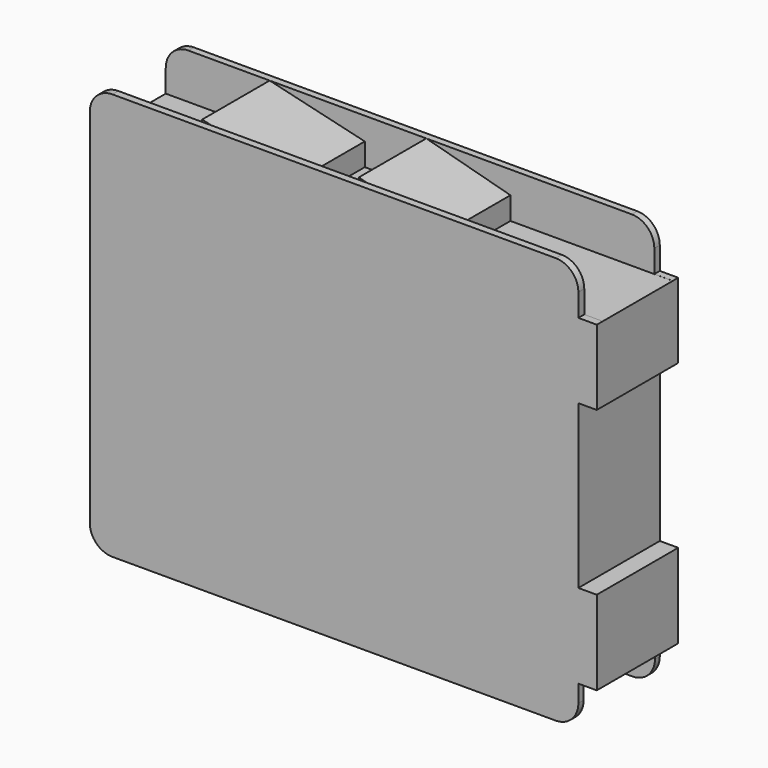
from build123d import *

# Parameters (mm, degrees)
F1_DEPTH  = 22.5
F2_W      = 19.3578329636
F2_H      = 6.3240909576
F2_H_2    = 5.0115762651
F2_W_2    = 19.7066257242
F2_H_3    = 3.8353008032
F2_H_4    = 6.6283914447
F3_DEPTH  = 155.21203
F5_DEPTH  = 18.63889
F6_R      = 2.0341510362
F6_R_2    = 1.9663944792
F6_R_3    = 2.1232474026
F7_DEPTH  = 10
F8_R      = 2.0166596657
F8_R_2    = 1.8228540719
F8_R_3    = 1.9926186892
F9_DEPTH  = 10
F11_DEPTH = 5.64108
F13_DEPTH = 40.33136
F12_W     = 4
F12_H     = 18.4578578919
F12_H_2   = 17.5
F14_DEPTH = 25
F16_W     = 1.5692119678
F16_H     = 22.5
F17_DEPTH = 78.97005
F18_DEPTH = 25
F19_DEPTH = 25


with BuildPart() as f1:
    # F0 (on Front) → F1 (new body)
    with BuildSketch(Plane.XZ):
        with BuildLine():
            ThreePointArc((-43.9944155514, -30.0488834083), (-42.5299494574, -33.5844173142), (-38.9944155514, -35.0488834083))
            Line((-38.9944155514, -35.0488834083), (59.0055844486, -35.0488834083))
            ThreePointArc((59.0055844486, -35.0488834083), (62.5411183545, -33.5844173142), (64.0055844486, -30.0488834083))
            Line((64.0055844486, -30.0488834083), (64.0055844486, 49.9511165917))
            ThreePointArc((64.0055844486, 49.9511165917), (62.5411183545, 53.4866504976), (59.0055844486, 54.9511165917))
            Line((59.0055844486, 54.9511165917), (-38.9944155514, 54.9511165917))
            ThreePointArc((-38.9944155514, 54.9511165917), (-42.5299494574, 53.4866504976), (-43.9944155514, 49.9511165917))
            Line((-43.9944155514, 49.9511165917), (-43.9944155514, -30.0488834083))
        make_face()
    extrude(amount=F1_DEPTH)

    # F2 (on face) → F3 (cut)
    with BuildSketch(Plane(origin=(-43.9944155514, 0, 0), x_dir=(0, -1, 0), z_dir=(-1, 0, 0))):
        with Locations((11.1899548792, 53.1131620705)):
            Rectangle(F2_W, F2_H)
        with Locations((11.1899548792, 47.4453284591)):
            Rectangle(F2_W, F2_H_2)
        with Locations((11.1899542389, -28.1312330067)):
            Rectangle(F2_W_2, F2_H_3)
        with Locations((11.1899542389, -33.3630791306)):
            Rectangle(F2_W_2, F2_H_4)
    extrude(amount=-F3_DEPTH, mode=Mode.SUBTRACT)

    # F4 (on face) → F5 (join)
    with BuildSketch(Plane.XZ.offset(1.5110383974)):
        Polygon((0, 49.9453284591), (-21.0268571973, 54.9511165917), (-21.0268571973, 44.9395403266), (0, 44.9395403266), align=None)
        Polygon((32.1980565786, 49.9453284591), (13.5992644355, 54.9511165917), (13.5992644355, 44.9395403266), (32.1980565786, 44.9395403266), align=None)
    extrude(amount=F5_DEPTH)

    # F6 (on face) → F7 (cut)
    with BuildSketch(Plane(origin=(-21.0268571973, 0, 0), x_dir=(0, -1, 0), z_dir=(-1, 0, 0))):
        with Locations((5.4616648704, 49.1789467633)):
            Circle(F6_R)
        with Locations((10.4407919571, 49.1789467633)):
            Circle(F6_R_2)
        with Locations((15.9926619381, 49.1789467633)):
            Circle(F6_R_3)
    extrude(amount=-F7_DEPTH, mode=Mode.SUBTRACT)

    # F8 (on face) → F9 (cut)
    with BuildSketch(Plane(origin=(13.5992644355, 0, 0), x_dir=(0, -1, 0), z_dir=(-1, 0, 0))):
        with Locations((5.1434063353, 49.4216457009)):
            Circle(F8_R)
        with Locations((9.7698038444, 49.4216457009)):
            Circle(F8_R_2)
        with Locations((15.0747206062, 49.4216457009)):
            Circle(F8_R_3)
    extrude(amount=-F9_DEPTH, mode=Mode.SUBTRACT)

    # F10 (on face) → F11 (join)
    with BuildSketch(Plane.YZ.offset(64.0055844486)):
        Polygon((-20.868871361, 44.9503771961), (-22.5, 44.9503771961), (-22.5, 28.3550862223), (0, 28.3550862223), (0, 44.9503771961), (-1.5110383974, 44.9503771961), (-1.5110383974, 44.9395403266), (-20.868871361, 44.9395403266), align=None)
        Polygon((0, -8.5606295615), (-22.5, -8.5606295615), (-22.5, -26.2135826051), (-21.043267101, -26.2135826051), (-1.3366413768, -26.2135826051), (0, -26.2135826051), align=None)
    extrude(amount=F11_DEPTH)

    # F13 (add): a face of the model
    f13_faces = [f1.faces().sort_by_distance(p)[0] for p in [
        (66.8261244486, -11.25, 28.3550862223),
    ]]
    extrude(f13_faces, amount=F13_DEPTH)

    # F12 (on face) → F14 (cut)
    with BuildSketch(Plane.XZ.offset(22.5)):
        with Locations((66.0055844486, 19.1261572763)):
            Rectangle(F12_W, F12_H)
        with Locations((66.0055844486, 1.1472283304)):
            Rectangle(F12_W, F12_H_2)
    extrude(amount=-F14_DEPTH, mode=Mode.SUBTRACT)

    # F16 (on face) → F17 (cut)
    with BuildSketch(Plane(origin=(0, 0, -26.2135826051), x_dir=(1, 0, 0), z_dir=(0, 0, -1))):
        with Locations((68.8620584647, 11.25)):
            Rectangle(F16_W, F16_H)
    extrude(amount=-F17_DEPTH, mode=Mode.SUBTRACT)

    # F15 (on face) → F18 (cut)
    with BuildSketch(Plane(origin=(68.0055844486, 0, 0), x_dir=(0, -1, 0), z_dir=(-1, 0, 0))):
        Polygon((0, -7.6027716696), (22.0939440089, -7.6027716696), (21.3063190472, 28.3550862223), (0, 28.3550862223), align=None)
    extrude(amount=-F18_DEPTH, mode=Mode.SUBTRACT)

    # F19 (cut): a face of the model
    f19_faces = [f1.faces().sort_by_distance(p)[0] for p in [
        (68.0415184647, -21.7001315281, 10.3761572763),
    ]]
    extrude(f19_faces, amount=-F19_DEPTH, mode=Mode.SUBTRACT)


solid = f1.part
